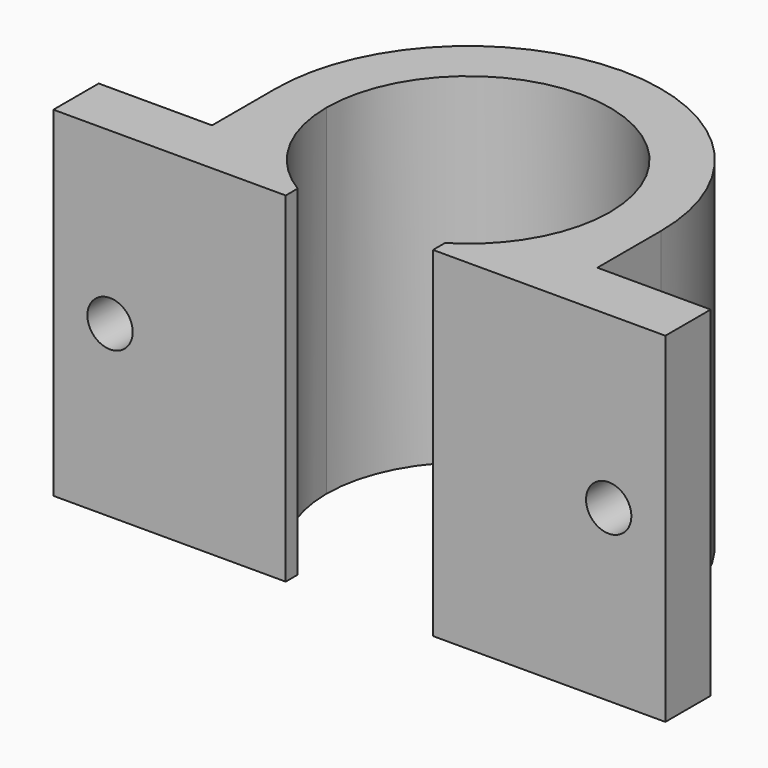
from build123d import *

# Parameters (mm, degrees)
F0_W      = 10
F0_H      = 5
F1_DEPTH  = 30
F2_R      = 2
F1_FACE_W = 20.5
F1_FACE_H = 30
F3_DEPTH  = 25


with BuildPart() as f1:
    # F0 (on Top) → F1 (new body)
    with BuildSketch(Plane.XY):
        with Locations((-22, -9.5)):
            Rectangle(F0_W, F0_H)
        with Locations((22, -9.5)):
            Rectangle(F0_W, F0_H)
        with BuildLine():
            ThreePointArc((-15.4919333848, -7), (-16.6187073436, -3.5803025332), (-17, 0))
            Line((-17, 0), (-17, -7))
            Line((-17, -7), (-15.4919333848, -7))
        make_face()
        with BuildLine():
            Line((17, -7), (17, 0))
            ThreePointArc((17, 0), (16.6187073436, -3.5803025332), (15.4919333848, -7))
            Line((15.4919333848, -7), (17, -7))
        make_face()
        with BuildLine():
            Line((12.5, 0), (17, 0))
            ThreePointArc((17, 0), (0, 17), (-17, 0))
            Line((-17, 0), (-12.5, 0))
            ThreePointArc((-12.5, 0), (0, 12.5), (12.5, 0))
        make_face()
        with BuildLine():
            Line((-12.5, 0), (-17, 0))
            ThreePointArc((-17, 0), (-16.6187073436, -3.5803025332), (-15.4919333848, -7))
            Line((-15.4919333848, -7), (-10.3561575886, -7))
            ThreePointArc((-10.3561575886, -7), (-11.9520284859, -3.6604665101), (-12.5, 0))
        make_face()
        with BuildLine():
            ThreePointArc((-12.0415945788, -12), (-13.991918758, -9.6553720523), (-15.4919333848, -7))
            Line((-15.4919333848, -7), (-17, -7))
            Line((-17, -7), (-17, -12))
            Line((-17, -12), (-12.0415945788, -12))
        make_face()
        with BuildLine():
            Line((17, -7), (15.4919333848, -7))
            ThreePointArc((15.4919333848, -7), (13.991918758, -9.6553720523), (12.0415945788, -12))
            Line((12.0415945788, -12), (17, -12))
            Line((17, -12), (17, -7))
        make_face()
        with BuildLine():
            ThreePointArc((15.4919333848, -7), (16.6187073436, -3.5803025332), (17, 0))
            Line((17, 0), (12.5, 0))
            ThreePointArc((12.5, 0), (11.9520284859, -3.6604665101), (10.3561575886, -7))
            Line((10.3561575886, -7), (15.4919333848, -7))
        make_face()
        with BuildLine():
            Line((-10.3561575886, -7), (-15.4919333848, -7))
            ThreePointArc((-15.4919333848, -7), (-13.991918758, -9.6553720523), (-12.0415945788, -12))
            Line((-12.0415945788, -12), (-6.5, -12))
            Line((-6.5, -12), (-6.5, -10.677078252))
            ThreePointArc((-6.5, -10.677078252), (-8.6262818341, -9.0463949571), (-10.3561575886, -7))
        make_face()
        with BuildLine():
            ThreePointArc((12.0415945788, -12), (13.991918758, -9.6553720523), (15.4919333848, -7))
            Line((15.4919333848, -7), (10.3561575886, -7))
            ThreePointArc((10.3561575886, -7), (8.6262818341, -9.0463949571), (6.5, -10.677078252))
            Line((6.5, -10.677078252), (6.5, -12))
            Line((6.5, -12), (12.0415945788, -12))
        make_face()
    extrude(amount=F1_DEPTH)

    # F2 (on Front) + F1_face (on face) → F3 (cut)
    with BuildSketch(Plane.XZ):
        with Locations((-22, 15)):
            Circle(F2_R)
        with Locations((22, 15)):
            Circle(F2_R)
    with BuildSketch(Plane(origin=(-16.75, -12, 15), x_dir=(1, 0, 0), z_dir=(0, -1, 0))):
        Rectangle(F1_FACE_W, F1_FACE_H)
        with Locations((33.5, 0)):
            Rectangle(F1_FACE_W, F1_FACE_H)
    extrude(amount=F3_DEPTH, mode=Mode.SUBTRACT)


solid = f1.part
